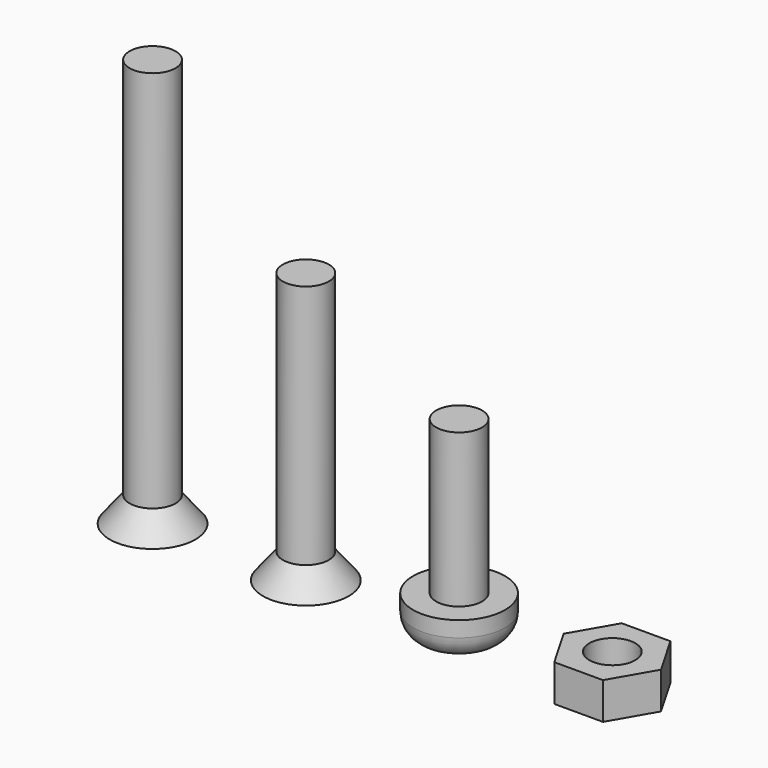
from build123d import *

# Parameters (mm, degrees)
F4_R     = 1.5
F5_DEPTH = 2.4
F7_DEPTH = 0.5


with BuildPart() as f1:
    # F0 (on Front) → F1 (revolve)
    with BuildSketch(Plane.XZ):
        Polygon((11.5, 26.65), (10, 26.65), (10, 0), (12.8, 0), (11.5, 1.65), align=None)
    revolve(axis=Axis((10, 0, 13.325), (0, 0, 1)))


with BuildPart() as f2:
    # F0 (on Front) → F2 (revolve)
    with BuildSketch(Plane.XZ):
        Polygon((21.5, 17.65), (20, 17.65), (20, 0), (22.8, 0), (21.5, 1.65), align=None)
    revolve(axis=Axis((20, 0, 8.825), (0, 0, 1)))


with BuildPart() as f3:
    # F0 (on Front) → F3 (revolve)
    with BuildSketch(Plane.XZ):
        with BuildLine():
            Line((31.5, 12.52), (30, 12.52))
            Line((30, 12.52), (30, 0))
            Line((30, 0), (31.5, 0))
            ThreePointArc((31.5, 0), (32.56066, 0.43934), (33, 1.5))
            Line((33, 1.5), (33, 2.52))
            Line((33, 2.52), (31.5, 2.52))
            Line((31.5, 2.52), (31.5, 12.52))
        make_face()
    revolve(axis=Axis((30, 0, 6.26), (0, 0, -1)))


with BuildPart() as f5:
    # F4 (on Top) → F5 (new body)
    with BuildSketch(Plane.XY):
        Polygon((41.587713, -2.75), (43.175426, 0), (41.587713, 2.75), (38.412287, 2.75), (36.824574, 0), (38.412287, -2.75), align=None)
        with Locations((40, 0)):
            Circle(F4_R, mode=Mode.SUBTRACT)
    extrude(amount=F5_DEPTH)


with BuildPart() as f7_tool:
    # F6 (on face) → F7 (new body)
    with BuildSketch(Plane(origin=(0, 0, 0), x_dir=(1, 0, 0), z_dir=(0, 0, -1))):
        Polygon((9.75, -1.5), (10.25, -1.5), (10.25, -0.25), (11.5, -0.25), (11.5, 0.25), (10.25, 0.25), (10.25, 1.5), (9.75, 1.5), (9.75, 0.25), (8.5, 0.25), (8.5, -0.25), (9.75, -0.25), align=None)
        Polygon((19.75, -1.5), (20.25, -1.5), (20.25, -0.25), (21.5, -0.25), (21.5, 0.25), (20.25, 0.25), (20.25, 1.5), (19.75, 1.5), (19.75, 0.25), (18.5, 0.25), (18.5, -0.25), (19.75, -0.25), align=None)
        Polygon((29.75, -1.5), (30.25, -1.5), (30.25, -0.25), (31.5, -0.25), (31.5, 0.25), (30.25, 0.25), (30.25, 1.5), (29.75, 1.5), (29.75, 0.25), (28.5, 0.25), (28.5, -0.25), (29.75, -0.25), align=None)
    extrude(amount=-F7_DEPTH)


with BuildPart() as f1_1:
    add(f1.part)

    # F7: cut by f7_tool
    add(f7_tool.part, mode=Mode.SUBTRACT)


with BuildPart() as f2_1:
    add(f2.part)

    # F7: cut by f7_tool
    add(f7_tool.part, mode=Mode.SUBTRACT)


with BuildPart() as f3_1:
    add(f3.part)

    # F7: cut by f7_tool
    add(f7_tool.part, mode=Mode.SUBTRACT)


solid = Compound([f5.part, f1_1.part, f2_1.part, f3_1.part])
